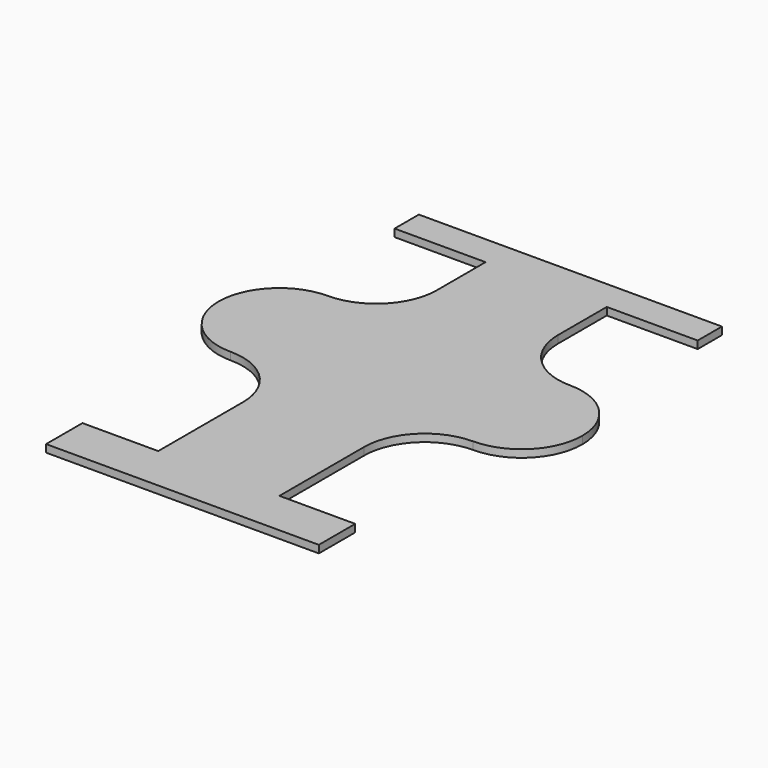
from build123d import *

# Parameters (mm, degrees)
F1_DEPTH = 3.175


with BuildPart() as f1:
    # F0 (on Top) → F1 (new body)
    with BuildSketch(Plane.XY):
        with BuildLine():
            Line((-25.4, 53.86592), (-25.4, 9.525))
            Line((-25.4, 9.525), (-57.15, 9.525))
            Line((-57.15, 9.525), (-57.15, -9.525))
            Line((-57.15, -9.525), (57.15, -9.525))
            Line((57.15, -9.525), (57.15, 9.525))
            Line((57.15, 9.525), (25.4, 9.525))
            Line((25.4, 9.525), (25.4, 53.86592))
            ThreePointArc((25.4, 53.86592), (32.839488, 71.826433), (50.8, 79.26592))
            ThreePointArc((50.8, 79.26592), (68.826015, 86.771151), (76.199322, 104.851528))
            ThreePointArc((76.199322, 104.851528), (68.69477, 122.691935), (50.8, 130.06592))
            ThreePointArc((50.8, 130.06592), (32.839488, 137.505408), (25.4, 155.46592))
            Line((25.4, 155.46592), (25.4, 180.975))
            Line((25.4, 180.975), (63.5, 180.975))
            Line((63.5, 180.975), (63.5, 193.675))
            Line((63.5, 193.675), (-63.5, 193.675))
            Line((-63.5, 193.675), (-63.5, 180.975))
            Line((-63.5, 180.975), (-25.4, 180.975))
            Line((-25.4, 180.975), (-25.4, 155.46592))
            ThreePointArc((-25.4, 155.46592), (-32.839488, 137.505408), (-50.8, 130.06592))
            ThreePointArc((-50.8, 130.06592), (-68.826015, 122.56069), (-76.199322, 104.480313))
            ThreePointArc((-76.199322, 104.480313), (-68.69477, 86.639905), (-50.8, 79.26592))
            ThreePointArc((-50.8, 79.26592), (-32.839488, 71.826433), (-25.4, 53.86592))
        make_face()
    extrude(amount=F1_DEPTH)


solid = f1.part
